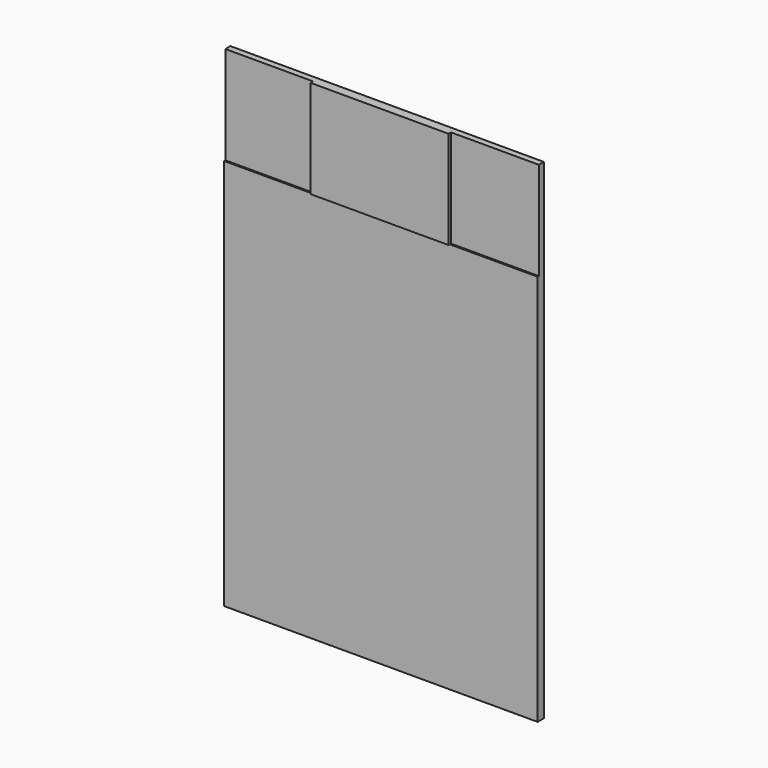
from build123d import *

# Parameters (mm, degrees)
F0_W     = 112
F0_H     = 125
F1_DEPTH = 8
F2_DEPTH = 10
F0_W_2   = 176
F3_DEPTH = 12


with BuildPart() as f1:
    # F0 (on Front) → F1 (new body)
    with BuildSketch(Plane.XZ):
        with Locations((-144, 250)):
            Rectangle(F0_W, F0_H)
        with Locations((144, 250)):
            Rectangle(F0_W, F0_H)
    extrude(amount=F1_DEPTH)

    # F0 (on Front) → F2 (join)
    with BuildSketch(Plane.XZ):
        Polygon((-200, 187.5), (-200, -312.5), (200, -312.5), (200, 187.5), (88, 187.5), (-88, 187.5), align=None)
    extrude(amount=F2_DEPTH)

    # F0 (on Front) → F3 (join)
    with BuildSketch(Plane.XZ):
        with Locations((0, 250)):
            Rectangle(F0_W_2, F0_H)
    extrude(amount=F3_DEPTH)


solid = f1.part
